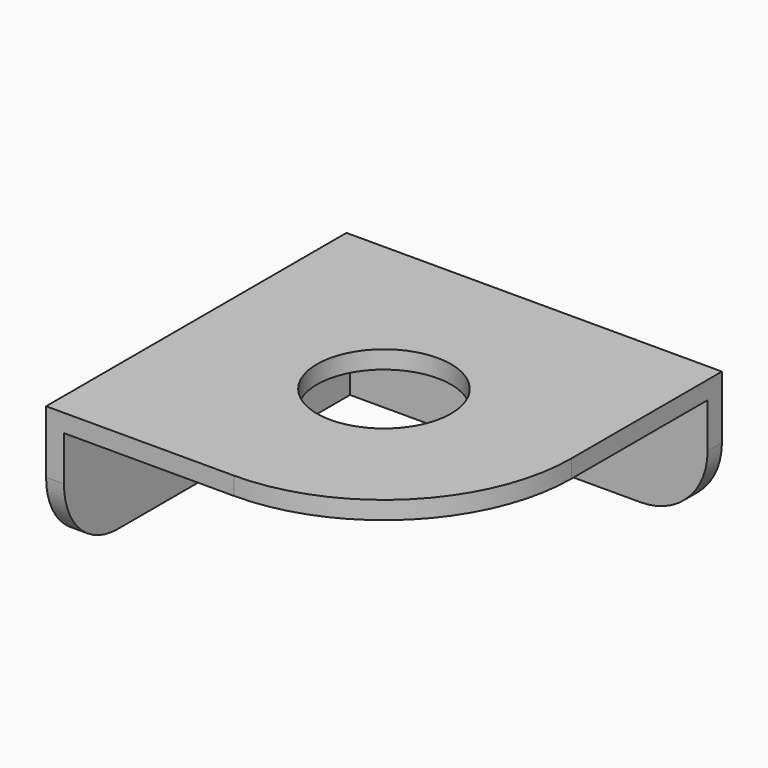
from build123d import *

# Parameters (mm, degrees)
F0_R     = 15
F1_DEPTH = 4
F3_DEPTH = 25
F4_R     = 15


with BuildPart() as f1:
    # F0 (on Top) → F1 (new body)
    with BuildSketch(Plane.XY):
        with BuildLine():
            Line((84, 0), (0, 0))
            Line((0, 0), (0, -84))
            Line((0, -84), (42, -84))
            ThreePointArc((42, -84), (71.698485, -71.698485), (84, -42))
            Line((84, -42), (84, 0))
        make_face()
        with Locations((42, -42)):
            Circle(F0_R, mode=Mode.SUBTRACT)
    extrude(amount=F1_DEPTH)

    # F2 (on face) → F3 (join)
    with BuildSketch(Plane(origin=(0, 0, 0), x_dir=(1, 0, 0), z_dir=(0, 0, -1))):
        Polygon((84, 4), (4, 4), (4, 84), (0, 84), (0, 0), (84, 0), align=None)
    extrude(amount=F3_DEPTH)

    # F4
    f4_edges = [f1.edges().sort_by_distance(p)[0] for p in [
        (2, -84, -25),
        (84, -2, -25),
    ]]
    fillet(f4_edges, radius=F4_R)


solid = f1.part
